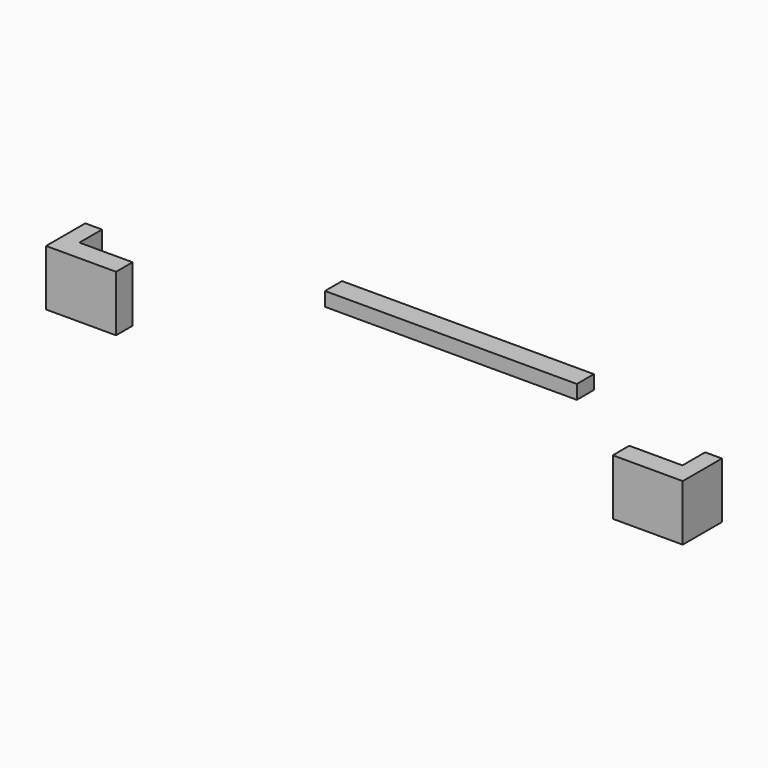
from build123d import *

# Parameters (mm, degrees)
SKETCH_W     = 36
SKETCH_H     = 3.05
PAD_DEPTH    = 1
PAD001_DEPTH = 4
PAD002_DEPTH = 4


with BuildPart() as feature_positioning_lip_a:
    # Sketch → Pad (new body, symmetric)
    with BuildSketch(Plane.XY):
        with Locations((0, 0.975)):
            Rectangle(SKETCH_W, SKETCH_H)
    extrude(amount=PAD_DEPTH, both=True)


with BuildPart() as feature_positioning_lip_b:
    # Sketch001 → Pad001 (new body, symmetric)
    with BuildSketch(Plane.XY):
        Polygon((-45.5, -9), (-43.1, -9), (-43.1, -13.05), (-35.5, -13.05), (-35.5, -16), (-45.5, -16), align=None)
    extrude(amount=PAD001_DEPTH, both=True)


with BuildPart() as feature_positioning_lip_c:
    # Sketch002 → Pad002 (new body, symmetric)
    with BuildSketch(Plane.XY):
        Polygon((35.5, -13.05), (35.5, -16), (45.5, -16), (45.5, -9), (43.1, -9), (43.1, -13.05), align=None)
    extrude(amount=PAD002_DEPTH, both=True)


solid = Compound([feature_positioning_lip_a.part, feature_positioning_lip_b.part, feature_positioning_lip_c.part])
